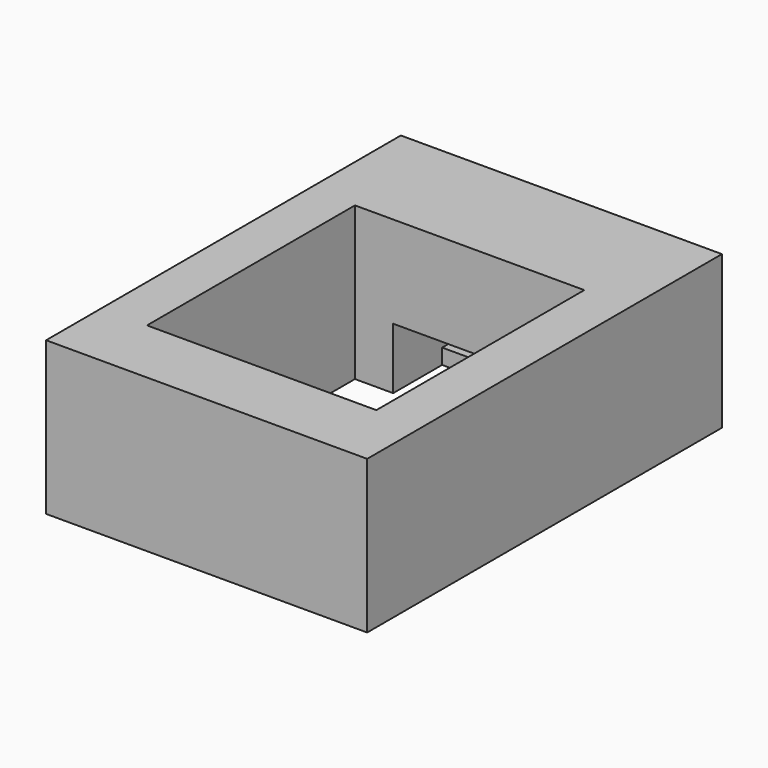
from build123d import *

# Parameters (mm, degrees)
FACE003_W        = 10
FACE003_H        = 3
EXTRUDE003_DEPTH = 1
FACE002_W        = 10
FACE002_H        = 4
EXTRUDE002_DEPTH = 4
FACE001_W        = 8
FACE001_H        = 2.5
EXTRUDE001_DEPTH = 1.5
SKETCH_W         = 15
SKETCH_H         = 17
EXTRUDE_DEPTH    = 10
FACE004_W        = 29
FACE004_H        = 21
EXTRUDE004_DEPTH = 10


with BuildPart() as extrude003:
    # Face003 → Extrude003 (new body)
    with BuildSketch(Plane(origin=(7.5, 21, 2.5), x_dir=(1, 0, 0), z_dir=(0, 1, 0))):
        Rectangle(FACE003_W, FACE003_H)
    extrude(amount=EXTRUDE003_DEPTH)


with BuildPart() as fusion001:
    # Face002 → Extrude002 (new body)
    with BuildSketch(Plane(origin=(7.5, 17, 2), x_dir=(1, 0, 0), z_dir=(0, 1, 0))):
        Rectangle(FACE002_W, FACE002_H)
    extrude(amount=EXTRUDE002_DEPTH)

    # Fusion001: union Extrude003
    add(extrude003.part)


with BuildPart() as extrude001:
    # Face001 → Extrude001 (new body)
    with BuildSketch(Plane(origin=(7.624542, 0, 3.25), x_dir=(1, 0, 0), z_dir=(0, 1, 0))):
        Rectangle(FACE001_W, FACE001_H)
    extrude(amount=-EXTRUDE001_DEPTH)


with BuildPart() as fusion002:
    # Sketch → Extrude (new body)
    with BuildSketch(Plane.XY):
        with Locations((7.5, 8.5)):
            Rectangle(SKETCH_W, SKETCH_H)
    extrude(amount=EXTRUDE_DEPTH)

    # Fusion: union Extrude001
    add(extrude001.part)

    # Fusion002: union Fusion001
    add(fusion001.part)


with BuildPart() as cut:
    # Face004 → Extrude004 (new body)
    with BuildSketch(Plane(origin=(7.5, 10, 0), x_dir=(0, 1, 0), z_dir=(0, 0, 1))):
        Rectangle(FACE004_W, FACE004_H)
    extrude(amount=EXTRUDE004_DEPTH)

    # Cut: cut Fusion002
    add(fusion002.part, mode=Mode.SUBTRACT)


solid = cut.part
